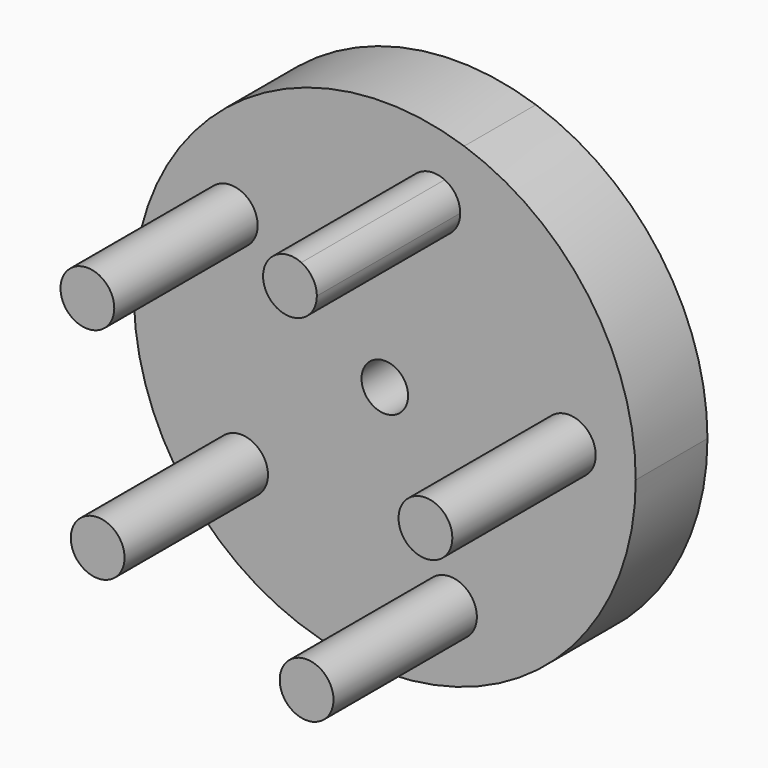
from build123d import *

# Parameters (mm, degrees)
F0_R     = 3.81
F1_DEPTH = 38.1
F2_DEPTH = 12.7
F3_R     = 3.302
F4_DEPTH = 25.4


with BuildPart() as f1:
    # F0 (on Front) → F1 (new body)
    with BuildSketch(Plane.XZ):
        with Locations((-21.825766, 14.32471)):
            Circle(F0_R)
        with BuildLine():
            ThreePointArc((10.689076, 25.184116), (10.0927, 27.230753), (8.49027, 28.636673))
            ThreePointArc((8.49027, 28.636673), (3.665453, 23.137478), (10.689076, 25.184116))
        make_face()
        with Locations((26.077269, 1.239929)):
            Circle(F0_R)
        with Locations((9.237562, -24.417797)):
            Circle(F0_R)
        with Locations((-20.368141, -16.330958)):
            Circle(F0_R)
    extrude(amount=F1_DEPTH)


with BuildPart() as f2:
    # F0 (on Front) → F2 (new body)
    with BuildSketch(Plane.XZ):
        with BuildLine():
            ThreePointArc((11.251551, 33.733013), (-28.849773, -20.789522), (35.56, 0))
            ThreePointArc((35.56, 0), (28.849773, 20.789522), (11.251551, 33.733013))
        make_face()
        with Locations((-20.368141, -16.330958)):
            Circle(F0_R, mode=Mode.SUBTRACT)
        with Locations((9.237562, -24.417797)):
            Circle(F0_R, mode=Mode.SUBTRACT)
        with Locations((-21.825766, 14.32471)):
            Circle(F0_R, mode=Mode.SUBTRACT)
        with Locations((26.077269, 1.239929)):
            Circle(F0_R, mode=Mode.SUBTRACT)
        with BuildLine():
            ThreePointArc((10.689076, 25.184116), (3.665453, 23.137478), (8.49027, 28.636673))
            ThreePointArc((8.49027, 28.636673), (10.0927, 27.230753), (10.689076, 25.184116))
        make_face(mode=Mode.SUBTRACT)
    extrude(amount=F2_DEPTH)

    # F3 (on face) → F4 (cut)
    with BuildSketch(Plane.XZ.offset(12.7)):
        Circle(F3_R)
    extrude(amount=-F4_DEPTH, mode=Mode.SUBTRACT)


solid = Compound([f1.part, f2.part])
